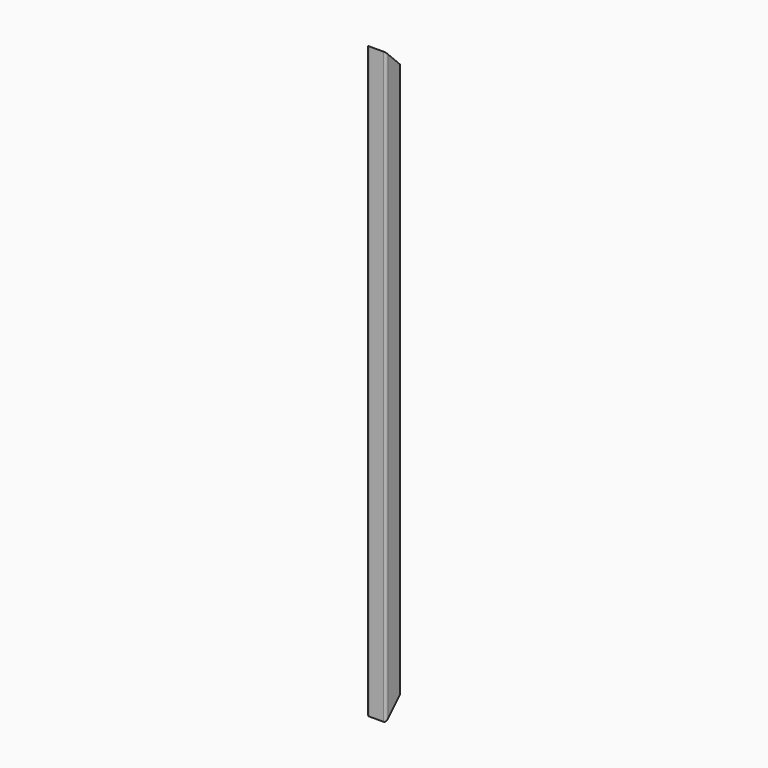
from build123d import *

# Parameters (mm, degrees)
F0_W     = 21
F0_H     = 21
F1_DEPTH = 800
F3_DEPTH = 12.5


with BuildPart() as f1:
    # F0 (on Top) → F1 (new body)
    with BuildSketch(Plane.XY):
        with BuildLine():
            ThreePointArc((12.5, 9.5), (11.62132, 11.62132), (9.5, 12.5))
            Line((9.5, 12.5), (-9.5, 12.5))
            ThreePointArc((-9.5, 12.5), (-11.62132, 11.62132), (-12.5, 9.5))
            Line((-12.5, 9.5), (-12.5, -9.5))
            ThreePointArc((-12.5, -9.5), (-11.62132, -11.62132), (-9.5, -12.5))
            Line((-9.5, -12.5), (9.5, -12.5))
            ThreePointArc((9.5, -12.5), (11.62132, -11.62132), (12.5, -9.5))
            Line((12.5, -9.5), (12.5, 9.5))
        make_face()
        Rectangle(F0_W, F0_H, mode=Mode.SUBTRACT)
    extrude(amount=F1_DEPTH)

    # F2 (on Right) → F3 (cut, symmetric)
    with BuildSketch(Plane.YZ):
        Polygon((12.5, 25), (-12.5, 0), (12.5, 0), align=None)
        Polygon((-12.5, 770.5), (12.5, 745.5), (12.5, 800), (-12.5, 800), align=None)
    extrude(amount=F3_DEPTH, both=True, mode=Mode.SUBTRACT)


solid = f1.part
